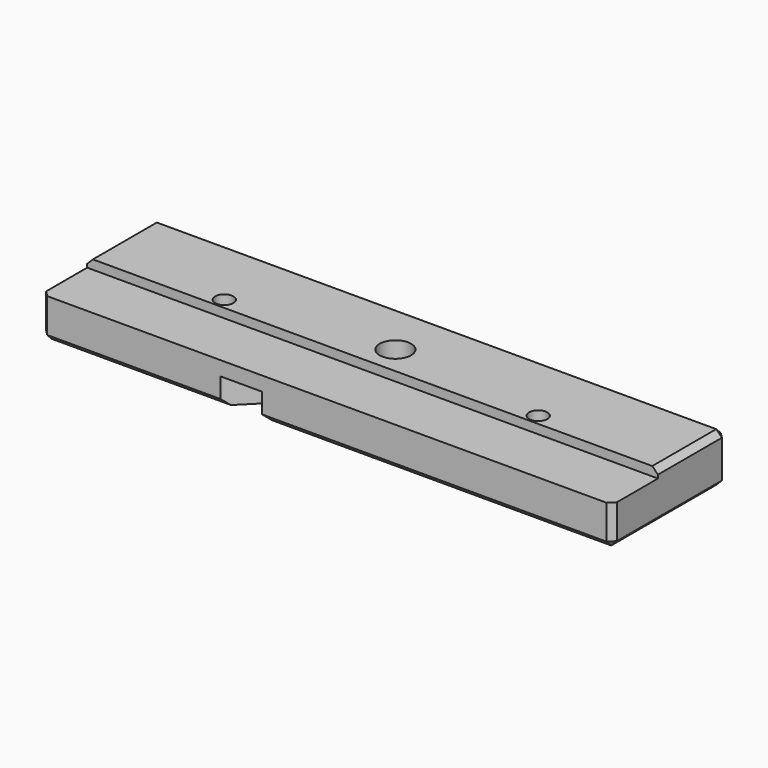
from build123d import *

# Parameters (mm, degrees)
SKETCH_W        = 100
SKETCH_H        = 25
PAD_DEPTH       = 8.6
SKETCH001_W     = 111.182612
SKETCH001_H     = 13.535424
POCKET_DEPTH    = 1.6
SKETCH002_R     = 2.75
POCKET001_DEPTH = 8.601
POCKET002_DEPTH = 4.5
SKETCH004_R     = 1.6
POCKET003_DEPTH = 8.601
POCKET004_DEPTH = 5
CHAMFER_SIZE    = 1


with BuildPart() as part:
    # Sketch → Pad (new body)
    with BuildSketch(Plane.XY):
        with Locations((50, 12.5)):
            Rectangle(SKETCH_W, SKETCH_H)
    extrude(amount=PAD_DEPTH)

    # Sketch001 → Pocket (cut)
    with BuildSketch(Plane.XY.offset(8.6)):
        with Locations((49.408694, 3.232288)):
            Rectangle(SKETCH001_W, SKETCH001_H)
    extrude(amount=-POCKET_DEPTH, mode=Mode.SUBTRACT)

    # Sketch002 → Pocket001 (cut, through all)
    with BuildSketch(Plane.XY.offset(8.6)):
        with Locations((50, 15)):
            Circle(SKETCH002_R)
    extrude(amount=-POCKET001_DEPTH, mode=Mode.SUBTRACT)

    # Sketch003 → Pocket002 (cut)
    with BuildSketch(Plane(origin=(0, 0, 0), x_dir=(1, 0, 0), z_dir=(0, 0, -1))):
        with BuildLine():
            ThreePointArc((60.696878, -29.303122), (64.303122, -29.303122), (64.303122, -25.696878))
            Line((64.303122, -25.696878), (34.303122, 4.303122))
            ThreePointArc((34.303122, 4.303122), (30.696878, 4.303122), (30.696878, 0.696878))
            Line((60.696878, -29.303122), (30.696878, 0.696878))
        make_face()
    extrude(amount=-POCKET002_DEPTH, mode=Mode.SUBTRACT)

    # Sketch004 → Pocket003 (cut, through all)
    with BuildSketch(Plane.XY.offset(8.6)):
        with Locations((22.5, 11.9)):
            Circle(SKETCH004_R)
        with Locations((77.5, 11.9)):
            Circle(SKETCH004_R)
    extrude(amount=-POCKET003_DEPTH, mode=Mode.SUBTRACT)

    # Sketch005 → Pocket004 (cut)
    with BuildSketch(Plane(origin=(0, 0, 0), x_dir=(1, 0, 0), z_dir=(0, 0, -1))):
        Polygon((25.514905, -10.732231), (22.996135, -8.705132), (19.98123, -9.8729), (19.485095, -13.067769), (22.003865, -15.094868), (25.01877, -13.9271), align=None)
        Polygon((80.171675, -13.769283), (80.471515, -10.550055), (77.833501, -8.680772), (74.895648, -10.030717), (74.595808, -13.249945), (77.233822, -15.119228), align=None)
    extrude(amount=-POCKET004_DEPTH, mode=Mode.SUBTRACT)

    # Chamfer
    chamfer_edges = [part.edges().sort_by_distance(p)[0] for p in [
        (15.696878, 0, 0),
        (0, 12.5, 0),
        (28.196878, 25, 0),
        (81.803122, 25, 0),
        (69.303122, 0, 0),
        (100, 12.5, 0),
        (100, 25, 4.3),
        (50, 25, 8.6),
        (100, 17.5, 8.6),
        (100, 0, 3.5),
        (0, 0, 3.5),
        (0, 17.5, 8.6),
        (0, 25, 4.3),
    ]]
    chamfer(chamfer_edges, length=CHAMFER_SIZE)


solid = part.part
